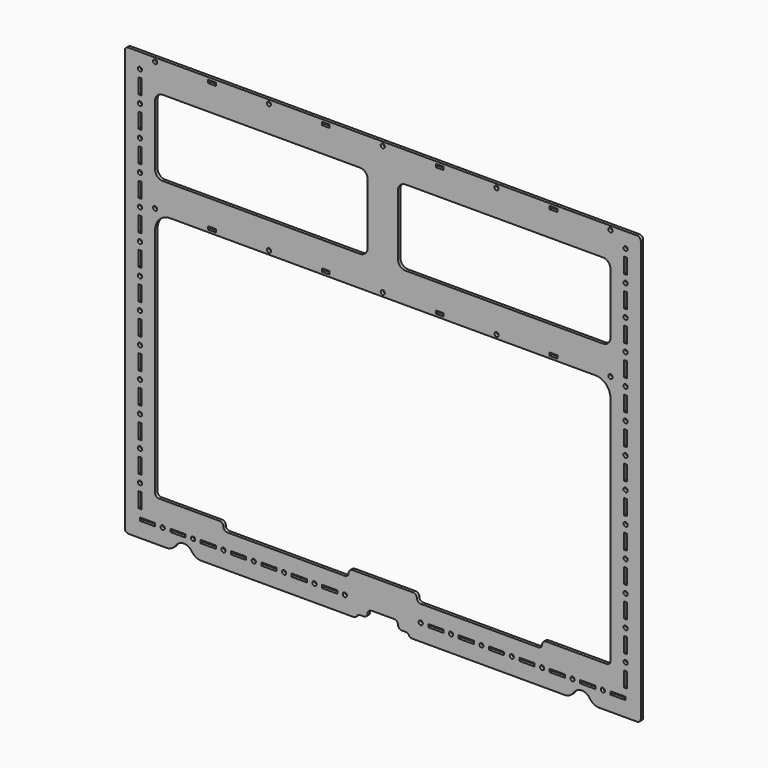
from build123d import *

# Parameters (mm, degrees)
F0_W     = 20
F0_H     = 4
F0_R     = 2.75
F0_W_2   = 4
F0_H_2   = 20
F0_W_3   = 10
F1_DEPTH = 4


with BuildPart() as f1:
    # F0 (on Front) → F1 (new body)
    with BuildSketch(Plane.XZ):
        with BuildLine():
            ThreePointArc((-20, -19), (-18.535534, -22.535534), (-15, -24))
            Line((-15, -24), (34.701139, -24))
            ThreePointArc((34.701139, -24), (41.852108, -22.185736), (47.273245, -17.181818))
            ThreePointArc((47.273245, -17.181818), (57.75, -11.5), (68.226755, -17.181818))
            ThreePointArc((68.226755, -17.181818), (73.647892, -22.185736), (80.798861, -24))
            Line((80.798861, -24), (281.339746, -24))
            ThreePointArc((281.339746, -24), (283.839746, -23.330127), (285.669873, -21.5))
            ThreePointArc((285.669873, -21.5), (287.5, -19.669873), (290, -19))
            Line((290, -19), (295, -19))
            ThreePointArc((295, -19), (298.535534, -17.535534), (300, -14))
            ThreePointArc((300, -14), (301.464466, -10.464466), (305, -9))
            Line((305, -9), (320, -9))
            Line((320, -9), (335, -9))
            ThreePointArc((335, -9), (338.535534, -10.464466), (340, -14))
            ThreePointArc((340, -14), (341.464466, -17.535534), (345, -19))
            Line((345, -19), (350, -19))
            ThreePointArc((350, -19), (352.5, -19.669873), (354.330127, -21.5))
            ThreePointArc((354.330127, -21.5), (356.160254, -23.330127), (358.660254, -24))
            Line((358.660254, -24), (360, -24))
            Line((360, -24), (559.201139, -24))
            ThreePointArc((559.201139, -24), (566.352108, -22.185736), (571.773245, -17.181818))
            ThreePointArc((571.773245, -17.181818), (582.25, -11.5), (592.726755, -17.181818))
            ThreePointArc((592.726755, -17.181818), (598.147892, -22.185736), (605.298861, -24))
            Line((605.298861, -24), (655, -24))
            ThreePointArc((655, -24), (658.535534, -22.535534), (660, -19))
            Line((660, -19), (660, 535))
            ThreePointArc((660, 535), (658.535534, 538.535534), (655, 540))
            Line((655, 540), (-15, 540))
            ThreePointArc((-15, 540), (-18.535534, 538.535534), (-20, 535))
            Line((-20, 535), (-20, -19))
        make_face()
        with Locations((10, -2)):
            Rectangle(F0_W, F0_H, mode=Mode.SUBTRACT)
        with Locations((30, -2)):
            Circle(F0_R, mode=Mode.SUBTRACT)
        with Locations((50, -2)):
            Rectangle(F0_W, F0_H, mode=Mode.SUBTRACT)
        with Locations((0, 20)):
            Rectangle(F0_W_2, F0_H_2, mode=Mode.SUBTRACT)
        with Locations((0, 40)):
            Circle(F0_R, mode=Mode.SUBTRACT)
        with Locations((70, -2)):
            Circle(F0_R, mode=Mode.SUBTRACT)
        with Locations((90, -2)):
            Rectangle(F0_W, F0_H, mode=Mode.SUBTRACT)
        with Locations((110, -2)):
            Circle(F0_R, mode=Mode.SUBTRACT)
        with Locations((130, -2)):
            Rectangle(F0_W, F0_H, mode=Mode.SUBTRACT)
        with Locations((0, 60)):
            Rectangle(F0_W_2, F0_H_2, mode=Mode.SUBTRACT)
        with Locations((0, 80)):
            Circle(F0_R, mode=Mode.SUBTRACT)
        with Locations((0, 100)):
            Rectangle(F0_W_2, F0_H_2, mode=Mode.SUBTRACT)
        with Locations((150, -2)):
            Circle(F0_R, mode=Mode.SUBTRACT)
        with Locations((170, -2)):
            Rectangle(F0_W, F0_H, mode=Mode.SUBTRACT)
        with Locations((190, -2)):
            Circle(F0_R, mode=Mode.SUBTRACT)
        with Locations((210, -2)):
            Rectangle(F0_W, F0_H, mode=Mode.SUBTRACT)
        with Locations((230, -2)):
            Circle(F0_R, mode=Mode.SUBTRACT)
        with Locations((250, -2)):
            Rectangle(F0_W, F0_H, mode=Mode.SUBTRACT)
        with Locations((270, -2)):
            Circle(F0_R, mode=Mode.SUBTRACT)
        with Locations((0, 120)):
            Circle(F0_R, mode=Mode.SUBTRACT)
        with Locations((0, 140)):
            Rectangle(F0_W_2, F0_H_2, mode=Mode.SUBTRACT)
        with Locations((0, 160)):
            Circle(F0_R, mode=Mode.SUBTRACT)
        with Locations((0, 180)):
            Rectangle(F0_W_2, F0_H_2, mode=Mode.SUBTRACT)
        with Locations((0, 200)):
            Circle(F0_R, mode=Mode.SUBTRACT)
        with Locations((0, 220)):
            Rectangle(F0_W_2, F0_H_2, mode=Mode.SUBTRACT)
        with Locations((0, 240)):
            Circle(F0_R, mode=Mode.SUBTRACT)
        with Locations((370, -2)):
            Circle(F0_R, mode=Mode.SUBTRACT)
        with Locations((390, -2)):
            Rectangle(F0_W, F0_H, mode=Mode.SUBTRACT)
        with Locations((410, -2)):
            Circle(F0_R, mode=Mode.SUBTRACT)
        with Locations((430, -2)):
            Rectangle(F0_W, F0_H, mode=Mode.SUBTRACT)
        with Locations((450, -2)):
            Circle(F0_R, mode=Mode.SUBTRACT)
        with Locations((470, -2)):
            Rectangle(F0_W, F0_H, mode=Mode.SUBTRACT)
        with Locations((490, -2)):
            Circle(F0_R, mode=Mode.SUBTRACT)
        with Locations((510, -2)):
            Rectangle(F0_W, F0_H, mode=Mode.SUBTRACT)
        with Locations((530, -2)):
            Circle(F0_R, mode=Mode.SUBTRACT)
        with Locations((550, -2)):
            Rectangle(F0_W, F0_H, mode=Mode.SUBTRACT)
        with Locations((570, -2)):
            Circle(F0_R, mode=Mode.SUBTRACT)
        with Locations((590, -2)):
            Rectangle(F0_W, F0_H, mode=Mode.SUBTRACT)
        with Locations((610, -2)):
            Circle(F0_R, mode=Mode.SUBTRACT)
        with Locations((630, -2)):
            Rectangle(F0_W, F0_H, mode=Mode.SUBTRACT)
        with Locations((640, 20)):
            Rectangle(F0_W_2, F0_H_2, mode=Mode.SUBTRACT)
        with Locations((640, 40)):
            Circle(F0_R, mode=Mode.SUBTRACT)
        with Locations((640, 60)):
            Rectangle(F0_W_2, F0_H_2, mode=Mode.SUBTRACT)
        with Locations((640, 80)):
            Circle(F0_R, mode=Mode.SUBTRACT)
        with Locations((640, 100)):
            Rectangle(F0_W_2, F0_H_2, mode=Mode.SUBTRACT)
        with BuildLine():
            ThreePointArc((20, 340), (25.857864, 354.142136), (40, 360))
            Line((40, 360), (600, 360))
            ThreePointArc((600, 360), (614.142136, 354.142136), (620, 340))
            Line((620, 340), (620, 35))
            ThreePointArc((620, 35), (618.535534, 31.464466), (615, 30))
            Line((615, 30), (535, 30))
            ThreePointArc((535, 30), (531.464466, 28.535534), (530, 25))
            ThreePointArc((530, 25), (528.535534, 21.464466), (525, 20))
            Line((525, 20), (370, 20))
            ThreePointArc((370, 20), (366.464466, 21.464466), (365, 25))
            ThreePointArc((365, 25), (363.535534, 28.535534), (360, 30))
            Line((360, 30), (280, 30))
            ThreePointArc((280, 30), (276.464466, 28.535534), (275, 25))
            ThreePointArc((275, 25), (273.535534, 21.464466), (270, 20))
            Line((270, 20), (115, 20))
            ThreePointArc((115, 20), (111.464466, 21.464466), (110, 25))
            ThreePointArc((110, 25), (108.535534, 28.535534), (105, 30))
            Line((105, 30), (25, 30))
            ThreePointArc((25, 30), (21.464466, 31.464466), (20, 35))
            Line((20, 35), (20, 340))
        make_face(mode=Mode.SUBTRACT)
        with Locations((640, 120)):
            Circle(F0_R, mode=Mode.SUBTRACT)
        with Locations((640, 140)):
            Rectangle(F0_W_2, F0_H_2, mode=Mode.SUBTRACT)
        with Locations((640, 160)):
            Circle(F0_R, mode=Mode.SUBTRACT)
        with Locations((640, 180)):
            Rectangle(F0_W_2, F0_H_2, mode=Mode.SUBTRACT)
        with Locations((640, 200)):
            Circle(F0_R, mode=Mode.SUBTRACT)
        with Locations((640, 220)):
            Rectangle(F0_W_2, F0_H_2, mode=Mode.SUBTRACT)
        with Locations((640, 240)):
            Circle(F0_R, mode=Mode.SUBTRACT)
        with Locations((0, 260)):
            Rectangle(F0_W_2, F0_H_2, mode=Mode.SUBTRACT)
        with Locations((0, 280)):
            Circle(F0_R, mode=Mode.SUBTRACT)
        with Locations((0, 300)):
            Rectangle(F0_W_2, F0_H_2, mode=Mode.SUBTRACT)
        with Locations((0, 320)):
            Circle(F0_R, mode=Mode.SUBTRACT)
        with Locations((0, 340)):
            Rectangle(F0_W_2, F0_H_2, mode=Mode.SUBTRACT)
        with Locations((0, 360)):
            Circle(F0_R, mode=Mode.SUBTRACT)
        with Locations((0, 380)):
            Rectangle(F0_W_2, F0_H_2, mode=Mode.SUBTRACT)
        with Locations((20, 365)):
            Circle(F0_R, mode=Mode.SUBTRACT)
        with Locations((95, 365)):
            Rectangle(F0_W_3, F0_H, mode=Mode.SUBTRACT)
        with Locations((170, 365)):
            Circle(F0_R, mode=Mode.SUBTRACT)
        with Locations((245, 365)):
            Rectangle(F0_W_3, F0_H, mode=Mode.SUBTRACT)
        with Locations((0, 400)):
            Circle(F0_R, mode=Mode.SUBTRACT)
        with Locations((0, 420)):
            Rectangle(F0_W_2, F0_H_2, mode=Mode.SUBTRACT)
        with Locations((0, 440)):
            Circle(F0_R, mode=Mode.SUBTRACT)
        with Locations((0, 460)):
            Rectangle(F0_W_2, F0_H_2, mode=Mode.SUBTRACT)
        with Locations((0, 480)):
            Circle(F0_R, mode=Mode.SUBTRACT)
        with Locations((0, 500)):
            Rectangle(F0_W_2, F0_H_2, mode=Mode.SUBTRACT)
        with Locations((0, 520)):
            Circle(F0_R, mode=Mode.SUBTRACT)
        with Locations((20, 535)):
            Circle(F0_R, mode=Mode.SUBTRACT)
        with Locations((95, 535)):
            Rectangle(F0_W_3, F0_H, mode=Mode.SUBTRACT)
        with BuildLine():
            ThreePointArc((20, 490), (22.928932, 497.071068), (30, 500))
            Line((30, 500), (290, 500))
            ThreePointArc((290, 500), (297.071068, 497.071068), (300, 490))
            Line((300, 490), (300, 410))
            ThreePointArc((300, 410), (297.071068, 402.928932), (290, 400))
            Line((290, 400), (30, 400))
            ThreePointArc((30, 400), (22.928932, 402.928932), (20, 410))
            Line((20, 410), (20, 490))
        make_face(mode=Mode.SUBTRACT)
        with Locations((170, 535)):
            Circle(F0_R, mode=Mode.SUBTRACT)
        with Locations((245, 535)):
            Rectangle(F0_W_3, F0_H, mode=Mode.SUBTRACT)
        with Locations((320, 365)):
            Circle(F0_R, mode=Mode.SUBTRACT)
        with Locations((395, 365)):
            Rectangle(F0_W_3, F0_H, mode=Mode.SUBTRACT)
        with Locations((470, 365)):
            Circle(F0_R, mode=Mode.SUBTRACT)
        with Locations((640, 260)):
            Rectangle(F0_W_2, F0_H_2, mode=Mode.SUBTRACT)
        with Locations((640, 280)):
            Circle(F0_R, mode=Mode.SUBTRACT)
        with Locations((640, 300)):
            Rectangle(F0_W_2, F0_H_2, mode=Mode.SUBTRACT)
        with Locations((640, 320)):
            Circle(F0_R, mode=Mode.SUBTRACT)
        with Locations((545, 365)):
            Rectangle(F0_W_3, F0_H, mode=Mode.SUBTRACT)
        with Locations((640, 340)):
            Rectangle(F0_W_2, F0_H_2, mode=Mode.SUBTRACT)
        with Locations((640, 360)):
            Circle(F0_R, mode=Mode.SUBTRACT)
        with Locations((620, 365)):
            Circle(F0_R, mode=Mode.SUBTRACT)
        with Locations((640, 380)):
            Rectangle(F0_W_2, F0_H_2, mode=Mode.SUBTRACT)
        with BuildLine():
            ThreePointArc((610, 500), (617.071068, 497.071068), (620, 490))
            Line((620, 490), (620, 410))
            ThreePointArc((620, 410), (617.071068, 402.928932), (610, 400))
            Line((610, 400), (350, 400))
            ThreePointArc((350, 400), (342.928932, 402.928932), (340, 410))
            Line((340, 410), (340, 490))
            ThreePointArc((340, 490), (342.928932, 497.071068), (350, 500))
            Line((350, 500), (610, 500))
        make_face(mode=Mode.SUBTRACT)
        with Locations((320, 535)):
            Circle(F0_R, mode=Mode.SUBTRACT)
        with Locations((395, 535)):
            Rectangle(F0_W_3, F0_H, mode=Mode.SUBTRACT)
        with Locations((470, 535)):
            Circle(F0_R, mode=Mode.SUBTRACT)
        with Locations((640, 400)):
            Circle(F0_R, mode=Mode.SUBTRACT)
        with Locations((640, 420)):
            Rectangle(F0_W_2, F0_H_2, mode=Mode.SUBTRACT)
        with Locations((640, 440)):
            Circle(F0_R, mode=Mode.SUBTRACT)
        with Locations((640, 460)):
            Rectangle(F0_W_2, F0_H_2, mode=Mode.SUBTRACT)
        with Locations((545, 535)):
            Rectangle(F0_W_3, F0_H, mode=Mode.SUBTRACT)
        with Locations((640, 480)):
            Circle(F0_R, mode=Mode.SUBTRACT)
        with Locations((640, 500)):
            Rectangle(F0_W_2, F0_H_2, mode=Mode.SUBTRACT)
        with Locations((640, 520)):
            Circle(F0_R, mode=Mode.SUBTRACT)
        with Locations((620, 535)):
            Circle(F0_R, mode=Mode.SUBTRACT)
    extrude(amount=F1_DEPTH)


solid = f1.part
